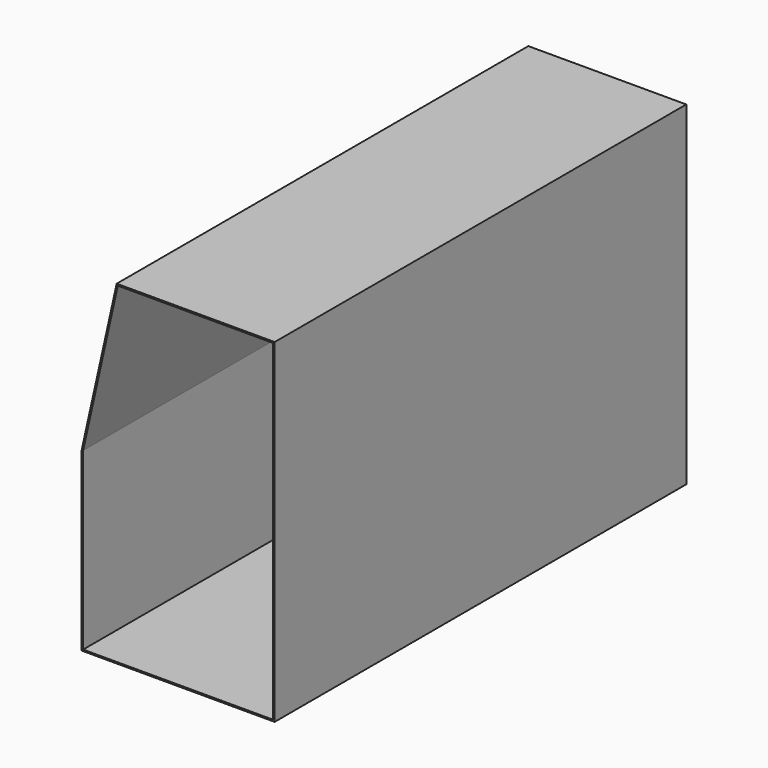
from build123d import *

# Parameters (mm, degrees)
BOX014_W           = 67
BOX014_H           = 180
BOX014_DEPTH       = 116
BOX014_PITCH_ANGLE = 12.5
BOX012_W           = 66.5
BOX012_H           = 180
BOX012_DEPTH       = 116
BOX015_W           = 67
BOX015_H           = 180
BOX015_DEPTH       = 116
BOX015_PITCH_ANGLE = 12.5
BOX013_W           = 67.5
BOX013_H           = 180
BOX013_DEPTH       = 117


with BuildPart() as cube415:
    # Box014 → Box014 (new body)
    with BuildSketch(Plane.XY):
        with Locations((33.5, 90)):
            Rectangle(BOX014_W, BOX014_H)
    extrude(amount=BOX014_DEPTH)


with BuildPart() as cube415_1:
    # Box014 pitch: moved
    add(cube415.part.rotate(Axis((0, 0, 0), (0, 1, 0)), BOX014_PITCH_ANGLE))


with BuildPart() as cube415_2:
    # Box014 placement: moved
    add(cube415_1.part.moved(Location((-53.2, 0, 65))))


with BuildPart() as cut333:
    # Box012 → Box012 (new body)
    with BuildSketch(Plane(origin=(14.5, 0, -0.5), x_dir=(1, 0, 0), z_dir=(0, 0, 1))):
        with Locations((33.25, 90)):
            Rectangle(BOX012_W, BOX012_H)
    extrude(amount=BOX012_DEPTH)

    # Cut006: cut Cube415
    add(cube415_2.part, mode=Mode.SUBTRACT)


with BuildPart() as cut333_1:
    # Cut006 placement: moved
    add(cut333.part.moved(Location((0, -2, 0))))


with BuildPart() as cube417:
    # Box015 → Box015 (new body)
    with BuildSketch(Plane.XY):
        with Locations((33.5, 90)):
            Rectangle(BOX015_W, BOX015_H)
    extrude(amount=BOX015_DEPTH)


with BuildPart() as cube417_1:
    # Box015 pitch: moved
    add(cube417.part.rotate(Axis((0, 0, 0), (0, 1, 0)), BOX015_PITCH_ANGLE))


with BuildPart() as cube417_2:
    # Box015 placement: moved
    add(cube417_1.part.moved(Location((-53.7, 0, 65))))


with BuildPart() as cut008:
    # Box013 → Box013 (new body)
    with BuildSketch(Plane(origin=(14, 0, -1), x_dir=(1, 0, 0), z_dir=(0, 0, 1))):
        with Locations((33.75, 90)):
            Rectangle(BOX013_W, BOX013_H)
    extrude(amount=BOX013_DEPTH)

    # Cut005: cut Cube417
    add(cube417_2.part, mode=Mode.SUBTRACT)


with BuildPart() as cut008_1:
    # Cut005 placement: moved
    add(cut008.part.moved(Location((0, -2, 0))))

    # Cut008: cut Cut333
    add(cut333_1.part, mode=Mode.SUBTRACT)


with BuildPart() as cut008_2:
    # Cut008 placement: moved
    add(cut008_1.part.moved(Location((0.5, -3, 0.5))))


solid = cut008_2.part
